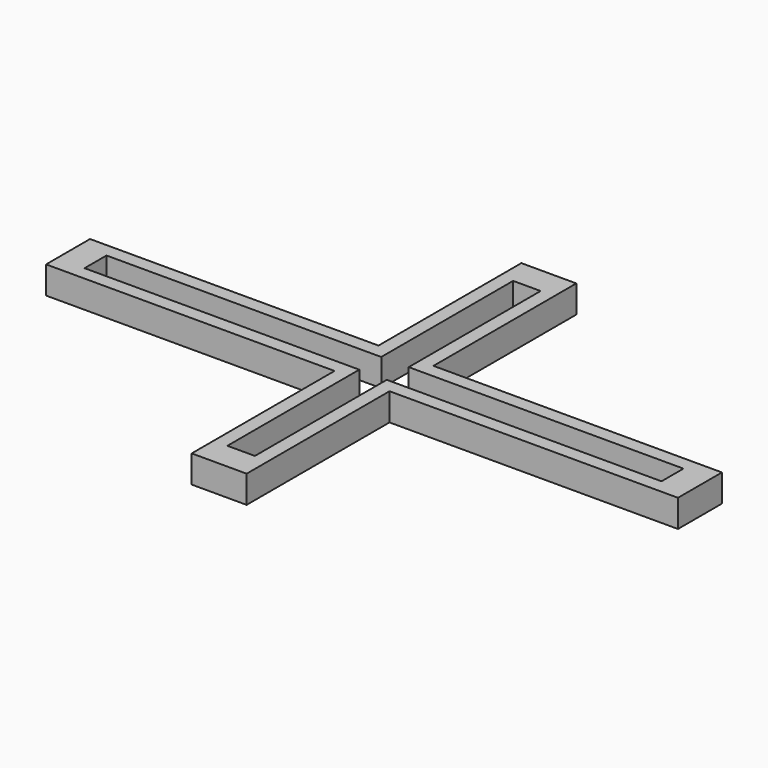
from build123d import *

# Parameters (mm, degrees)
F0_W     = 5
F0_H     = 5
F1_DEPTH = 10


with BuildPart() as f1:
    # F0 (on Top) → F1 (new body)
    with BuildSketch(Plane.XY):
        Polygon((-10, 10), (-115, 10), (-115, -10), (-10, -10), (-10, -5), (-105, -5), (-105, 5), (-10, 5), align=None)
        Polygon((-10, 75), (-10, 10), (-5, 10), (-5, 65), (5, 65), (5, 10), (10, 10), (10, 75), align=None)
        with Locations((-7.5, 7.5)):
            Rectangle(F0_W, F0_H)
        with Locations((-7.5, -7.5)):
            Rectangle(F0_W, F0_H)
        Polygon((-5, -10), (-10, -10), (-10, -75), (10, -75), (10, -10), (5, -10), (5, -65), (-5, -65), align=None)
        with Locations((7.5, 7.5)):
            Rectangle(F0_W, F0_H)
        Polygon((115, 10), (10, 10), (10, 5), (105, 5), (105, -5), (10, -5), (10, -10), (115, -10), align=None)
        with Locations((7.5, -7.5)):
            Rectangle(F0_W, F0_H)
    extrude(amount=F1_DEPTH)


solid = f1.part
